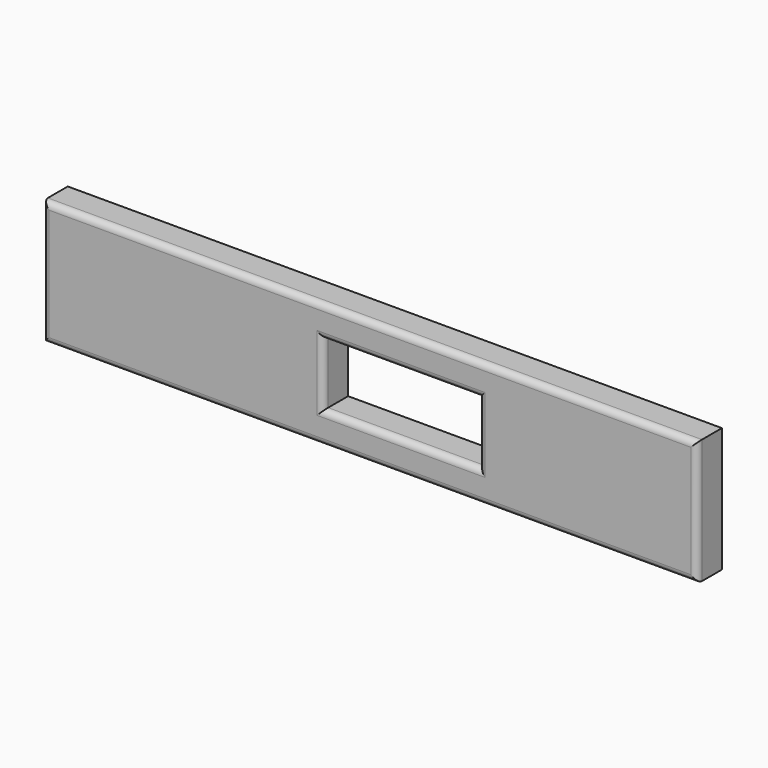
from build123d import *

# Parameters (mm, degrees)
F0_W     = 533.4
F0_H     = 101.6
F1_DEPTH = 25.4
F2_W     = 127
F2_H     = 50.8
F3_DEPTH = 50.8
F4_R     = 5.08


with BuildPart() as f1:
    # F0 (on Front) → F1 (new body)
    with BuildSketch(Plane.XZ):
        with Locations((-266.7, -50.8)):
            Rectangle(F0_W, F0_H)
    extrude(amount=F1_DEPTH)

    # F2 (on face) → F3 (cut)
    with BuildSketch(Plane.XZ.offset(25.4)):
        with Locations((-241.3, -50.8)):
            Rectangle(F2_W, F2_H)
    extrude(amount=-F3_DEPTH, mode=Mode.SUBTRACT)

    # F4
    f4_edges = [f1.edges().sort_by_distance(p)[0] for p in [
        (0, -25.4, -50.8),
        (-266.7, -25.4, -101.6),
        (-266.7, -25.4, 0),
        (-533.4, -25.4, -50.8),
        (-304.8, -25.4, -50.8),
        (-241.3, -25.4, -76.2),
        (-177.8, -25.4, -50.8),
        (-241.3, -25.4, -25.4),
    ]]
    fillet(f4_edges, radius=F4_R)


solid = f1.part
